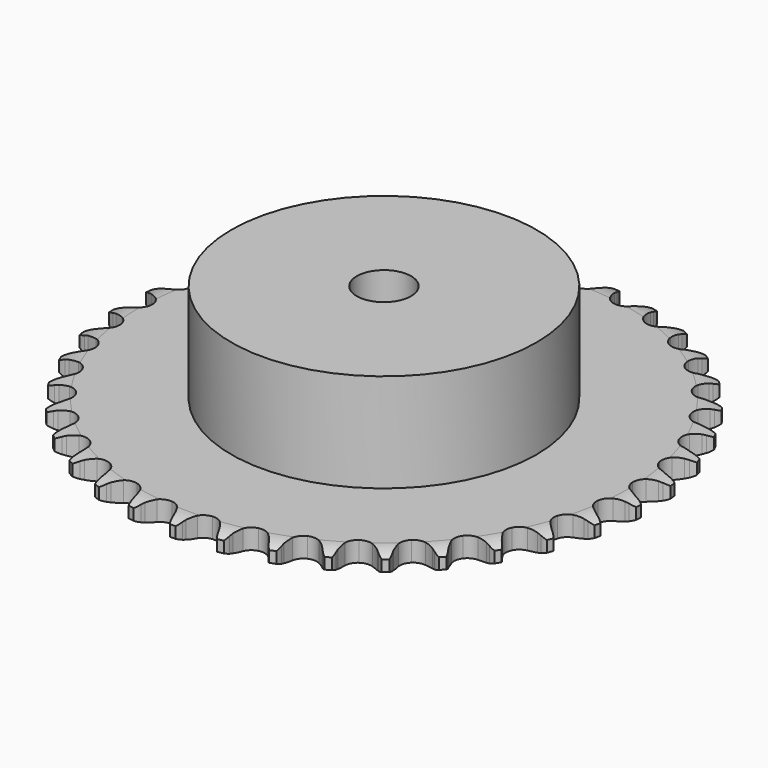
from build123d import *

# Parameters (mm, degrees)
PAD_DEPTH         = 5.9
SKETCH001_R       = 45
PAD001_DEPTH      = 35
SKETCH002_R       = 8
POCKET_DEPTH      = 0.001
POCKET_DEPTH_BACK = 35.001


with BuildPart() as part:
    # Sprocket → Pad (new body)
    with BuildSketch(Plane.XY):
        with BuildLine():
            ThreePointArc((-6.698559, 78.702366), (-5.642748, 77.523615), (-4.915144, 76.118346))
            Line((-4.915144, 76.118346), (-4.537139, 75.087359))
            ThreePointArc((-4.537139, 75.087359), (-3.938762, 73.75943), (-3.156175, 72.531014))
            ThreePointArc((-3.156175, 72.531014), (-1.766273, 71.36335), (0, 70.944369))
            ThreePointArc((0, 70.944369), (1.766273, 71.36335), (3.156175, 72.531014))
            ThreePointArc((3.156175, 72.531014), (3.938762, 73.75943), (4.537139, 75.087359))
            Line((4.537139, 75.087359), (4.915144, 76.118346))
            ThreePointArc((4.915144, 76.118346), (5.642748, 77.523615), (6.698559, 78.702366))
            ThreePointArc((6.698559, 78.702366), (7.539972, 77.362137), (8.019619, 75.854116))
            Line((8.019619, 75.854116), (8.217949, 74.774076))
            ThreePointArc((8.217949, 74.774076), (8.583298, 73.364122), (9.147025, 72.021117))
            ThreePointArc((9.147025, 72.021117), (10.319598, 70.635355), (11.989657, 69.923899))
            ThreePointArc((11.989657, 69.923899), (13.801331, 70.038352), (15.368577, 70.954325))
            Line((15.368577, 70.954325), (17.161702, 73.240515))
            ThreePointArc((17.161702, 73.240515), (17.422194, 73.724065), (17.708507, 74.192789))
            ThreePointArc((17.708507, 74.192789), (18.663137, 75.454879), (19.90297, 76.438243))
            ThreePointArc((19.90297, 76.438243), (20.505781, 74.975092), (20.723672, 73.407701))
            Line((20.723672, 73.407701), (20.736621, 72.309679))
            ThreePointArc((20.736621, 72.309679), (20.858431, 70.858261), (21.187081, 69.439304))
            ThreePointArc((21.187081, 69.439304), (22.108593, 67.875309), (23.634393, 66.891846))
            ThreePointArc((23.634393, 66.891846), (25.439351, 66.698478), (27.138853, 67.336409))
            Line((27.138853, 67.336409), (29.292553, 69.286676))
            ThreePointArc((29.292553, 69.286676), (29.631019, 69.719247), (29.992428, 70.132841))
            ThreePointArc((29.992428, 70.132841), (31.146621, 71.215444), (32.53481, 71.97513))
            ThreePointArc((32.53481, 71.97513), (32.881676, 70.43115), (32.831543, 68.849481))
            Line((32.831543, 68.849481), (32.658739, 67.765064))
            ThreePointArc((32.658739, 67.765064), (32.533506, 66.313938), (32.617624, 64.859849))
            ThreePointArc((32.617624, 64.859849), (33.261564, 63.162614), (34.59921, 61.935436))
            ThreePointArc((34.59921, 61.935436), (36.345526, 61.43981), (38.128394, 61.781348))
            Line((38.128394, 61.781348), (40.580712, 63.339584))
            ThreePointArc((40.580712, 63.339584), (40.987414, 63.708732), (41.413522, 64.055299))
            ThreePointArc((41.413522, 64.055299), (42.734074, 64.92727), (44.230682, 65.441423))
            ThreePointArc((44.230682, 65.441423), (44.311625, 63.861032), (43.994909, 62.310586))
            Line((43.994909, 62.310586), (43.641324, 61.270971))
            ThreePointArc((43.641324, 61.270971), (43.272651, 59.861883), (43.109816, 58.414494))
            ThreePointArc((43.109816, 58.414494), (43.45766, 56.632846), (44.568671, 55.197256))
            ThreePointArc((44.568671, 55.197256), (46.206107, 54.41363), (48.02105, 54.44895))
            Line((48.02105, 54.44895), (50.701437, 55.570329))
            ThreePointArc((50.701437, 55.570329), (51.164675, 55.865433), (51.643224, 56.135003))
            ThreePointArc((51.643224, 56.135003), (53.092145, 56.771257), (54.654118, 57.025087))
            ThreePointArc((54.654118, 57.025087), (54.46681, 55.453748), (53.892623, 53.979129))
            Line((53.892623, 53.979129), (53.368428, 53.014225))
            ThreePointArc((53.368428, 53.014225), (52.766921, 51.687711), (52.361818, 50.28866))
            ThreePointArc((52.361818, 50.28866), (52.403559, 48.473854), (53.255973, 46.871152))
            ThreePointArc((53.255973, 46.871152), (54.737422, 45.82207), (56.532228, 45.550154))
            Line((56.532228, 45.550154), (59.363574, 46.202416))
            ThreePointArc((59.363574, 46.202416), (59.870022, 46.414988), (60.387245, 46.599805))
            ThreePointArc((60.387245, 46.599805), (61.922852, 46.982038), (63.505255, 46.968242))
            ThreePointArc((63.505255, 46.968242), (63.055083, 45.451161), (62.239944, 44.094791))
            Line((62.239944, 44.094791), (61.560219, 43.232355))
            ThreePointArc((61.560219, 43.232355), (60.743182, 42.026577), (60.107466, 40.716113))
            ThreePointArc((60.107466, 40.716113), (59.841902, 38.920357), (60.411198, 37.19665))
            ThreePointArc((60.411198, 37.19665), (61.694042, 35.912292), (63.417077, 35.340964))
            Line((63.417077, 35.340964), (66.317929, 35.505343))
            ThreePointArc((66.317929, 35.505343), (66.853017, 35.629268), (67.394035, 35.724015))
            ThreePointArc((67.394035, 35.724015), (68.972151, 35.841231), (70.529461, 35.560206))
            ThreePointArc((70.529461, 35.560206), (69.829376, 34.141026), (68.796735, 32.941926))
            Line((68.796735, 32.941926), (67.981035, 32.20677))
            ThreePointArc((67.981035, 32.20677), (66.971973, 31.156415), (66.123932, 29.972238))
            ThreePointArc((66.123932, 29.972238), (65.558703, 28.247193), (65.828502, 26.452068))
            ThreePointArc((65.828502, 26.452068), (66.875836, 24.969382), (68.477532, 24.115078))
            Line((68.477532, 24.115078), (71.364438, 23.786847))
            ThreePointArc((71.364438, 23.786847), (71.912773, 23.818558), (72.462021, 23.820511))
            ThreePointArc((72.462021, 23.820511), (74.037247, 23.669338), (75.524663, 23.129168))
            ThreePointArc((75.524663, 23.129168), (74.594806, 21.848717), (73.374369, 20.841382))
            Line((73.374369, 20.841382), (72.44616, 20.254654))
            ThreePointArc((72.44616, 20.254654), (71.274102, 19.38994), (70.238132, 18.366116))
            ThreePointArc((70.238132, 18.366116), (69.3895, 16.761408), (69.35204, 14.946508))
            ThreePointArc((69.35204, 14.946508), (70.133734, 13.308149), (71.568013, 12.195446))
            Line((71.568013, 12.195446), (74.357922, 11.384046))
            ThreePointArc((74.357922, 11.384046), (74.903729, 11.322632), (75.445406, 11.231733))
            ThreePointArc((75.445406, 11.231733), (76.972426, 10.81652), (78.347158, 10.032746))
            ThreePointArc((78.347158, 10.032746), (77.214279, 8.927859), (75.841156, 8.141269))
            Line((75.841156, 8.141269), (74.827141, 7.719849))
            ThreePointArc((74.827141, 7.719849), (73.525804, 7.065652), (72.331709, 6.231634))
            ThreePointArc((72.331709, 6.231634), (71.224087, 4.793428), (70.880446, 3.010964))
            ThreePointArc((70.880446, 3.010964), (71.374012, 1.264065), (72.599613, -0.075027))
            Line((72.599613, -0.075027), (75.212264, -1.346253))
            ThreePointArc((75.212264, -1.346253), (75.739841, -1.499025), (76.258365, -1.680161))
            ThreePointArc((76.258365, -1.680161), (77.693249, -2.347468), (78.915748, -3.3523))
            ThreePointArc((78.915748, -3.3523), (77.612437, -4.249836), (76.126131, -4.793053))
            Line((76.126131, -4.793053), (75.055481, -5.037043))
            ThreePointArc((75.055481, -5.037043), (73.662304, -5.461902), (72.344434, -6.08212))
            ThreePointArc((72.344434, -6.08212), (71.009686, -7.31245), (70.369751, -9.011199))
            ThreePointArc((70.369751, -9.011199), (70.56099, -10.816384), (71.542654, -12.343342))
            Line((71.542654, -12.343342), (73.902887, -14.037823))
            ThreePointArc((73.902887, -14.037823), (74.397056, -14.277558), (74.877509, -14.543719))
            ThreePointArc((74.877509, -14.543719), (76.178978, -15.443925), (77.214075, -16.640906))
            ThreePointArc((77.214075, -16.640906), (75.777827, -17.305272), (74.221096, -17.589488))
            Line((74.221096, -17.589488), (73.124612, -17.649027))
            ThreePointArc((73.124612, -17.649027), (71.679673, -17.832327), (70.275942, -18.220903))
            ThreePointArc((70.275942, -18.220903), (68.752467, -19.207963), (67.834646, -20.774127))
            ThreePointArc((67.834646, -20.774127), (67.718057, -22.585665), (68.427543, -24.256562))
            Line((68.427543, -24.256562), (70.467457, -26.32555))
            ThreePointArc((70.467457, -26.32555), (70.914003, -26.645352), (71.342564, -26.988882))
            ThreePointArc((71.342564, -26.988882), (72.473177, -28.096088), (73.291094, -29.450784))
            ThreePointArc((73.291094, -29.450784), (71.763227, -29.862866), (70.180855, -29.879906))
            Line((70.180855, -29.879906), (69.090081, -29.753282))
            ThreePointArc((69.090081, -29.753282), (67.634948, -29.689749), (66.185739, -29.835504))
            ThreePointArc((66.185739, -29.835504), (64.517363, -30.550897), (63.348062, -31.939421))
            ThreePointArc((63.348062, -31.939421), (62.926998, -33.705198), (63.343896, -35.471964))
            Line((63.343896, -35.471964), (65.004807, -37.855939))
            ThreePointArc((65.004807, -37.855939), (65.390884, -38.246608), (65.755223, -38.657623))
            ThreePointArc((65.755223, -38.657623), (66.682454, -39.939978), (67.259662, -41.413416))
            ThreePointArc((67.259662, -41.413416), (65.684129, -41.56136), (64.121639, -41.310732))
            Line((64.121639, -41.310732), (63.067954, -41.001588))
            ThreePointArc((63.067954, -41.001588), (61.644489, -40.693051), (60.191493, -40.591792))
            ThreePointArc((60.191493, -40.591792), (58.426213, -41.014937), (57.039069, -42.185876))
            ThreePointArc((57.039069, -42.185876), (56.325644, -43.855094), (56.437961, -45.666902))
            Line((56.437961, -45.666902), (57.672088, -48.297281))
            ThreePointArc((57.672088, -48.297281), (57.986587, -48.747578), (58.276224, -49.214255))
            ThreePointArc((58.276224, -49.214255), (58.973399, -50.634867), (59.293292, -52.18466))
            ThreePointArc((59.293292, -52.18466), (57.715419, -52.064209), (56.21776, -51.553125))
            Line((56.21776, -51.553125), (55.231477, -51.070354))
            ThreePointArc((55.231477, -51.070354), (53.88063, -50.525687), (52.465647, -50.180327))
            ThreePointArc((52.465647, -50.180327), (50.654247, -50.299053), (49.089167, -51.21872))
            ThreePointArc((49.089167, -51.21872), (48.103904, -52.743358), (47.908408, -54.548087))
            Line((47.908408, -54.548087), (48.680247, -57.349199))
            ThreePointArc((48.680247, -57.349199), (48.914122, -57.846169), (49.120724, -58.355082))
            ThreePointArc((49.120724, -58.355082), (49.567786, -59.873083), (49.621161, -61.454646))
            ThreePointArc((49.621161, -61.454646), (48.086341, -61.069266), (46.696598, -60.312427))
            Line((46.696598, -60.312427), (45.806091, -59.669918))
            ThreePointArc((45.806091, -59.669918), (44.566723, -58.904792), (43.23046, -58.325266))
            ThreePointArc((43.23046, -58.325266), (41.425051, -58.136156), (39.727058, -58.778094))
            ThreePointArc((39.727058, -58.778094), (38.498303, -60.114293), (38.000618, -61.860023))
            Line((38.000618, -61.860023), (38.287964, -64.751285))
            ThreePointArc((38.287964, -64.751285), (38.434487, -65.280632), (38.55211, -65.81714))
            ThreePointArc((38.55211, -65.81714), (38.736198, -67.38886), (38.52152, -68.956694))
            ThreePointArc((38.52152, -68.956694), (37.073907, -68.317472), (35.83206, -67.336651))
            Line((35.83206, -67.336651), (35.062947, -66.552888))
            ThreePointArc((35.062947, -66.552888), (33.970714, -65.589313), (32.751611, -64.792294))
            ThreePointArc((32.751611, -64.792294), (31.004131, -64.300788), (29.222074, -64.646531))
            ThreePointArc((29.222074, -64.646531), (27.785175, -65.755848), (26.999619, -67.392358))
            Line((26.999619, -67.392358), (26.794207, -70.290594))
            ThreePointArc((26.794207, -70.290594), (26.849162, -70.837089), (26.874423, -71.385759))
            ThreePointArc((26.874423, -71.385759), (26.790241, -72.965982), (26.313686, -74.474983))
            ThreePointArc((26.313686, -74.474983), (24.994924, -73.600308), (23.9367, -72.423723))
            Line((23.9367, -72.423723), (23.311106, -71.521252))
            ThreePointArc((23.311106, -71.521252), (22.397428, -70.386949), (21.330558, -69.395365))
            ThreePointArc((21.330558, -69.395365), (19.691279, -68.615603), (17.876425, -68.655204))
            ThreePointArc((17.876425, -68.655204), (16.272718, -69.505727), (15.22189, -70.985938))
            Line((15.22189, -70.985938), (14.529628, -73.807771))
            ThreePointArc((14.529628, -73.807771), (14.491435, -74.355692), (14.423607, -74.900739))
            ThreePointArc((14.423607, -74.900739), (14.073577, -76.444005), (13.348854, -77.850763))
            ThreePointArc((13.348854, -77.850763), (12.196882, -76.765797), (11.352723, -75.427295))
            Line((11.352723, -75.427295), (10.888647, -74.43208))
            ThreePointArc((10.888647, -74.43208), (10.179809, -73.15968), (9.295864, -72.002058))
            ThreePointArc((9.295864, -72.002058), (7.811945, -70.956473), (6.016503, -70.688791))
            ThreePointArc((6.016503, -70.688791), (4.292125, -71.256053), (3.006255, -72.537382))
            Line((3.006255, -72.537382), (1.847059, -75.201632))
            ThreePointArc((1.847059, -75.201632), (1.716816, -75.735218), (1.55785, -76.260962))
            ThreePointArc((1.55785, -76.260962), (0.952042, -77.722874), (0, -78.986918))
            ThreePointArc((0, -78.986918), (-0.952042, -77.722874), (-1.55785, -76.260962))
            Line((-1.55785, -76.260962), (-1.847059, -75.201632))
            ThreePointArc((-1.847059, -75.201632), (-2.330664, -73.827741), (-3.006255, -72.537382))
            ThreePointArc((-3.006255, -72.537382), (-4.292125, -71.256053), (-6.016503, -70.688791))
            ThreePointArc((-6.016503, -70.688791), (-7.811945, -70.956473), (-9.295864, -72.002058))
            Line((-9.295864, -72.002058), (-10.888647, -74.43208))
            ThreePointArc((-10.888647, -74.43208), (-11.107193, -74.935979), (-11.352723, -75.427295))
            ThreePointArc((-11.352723, -75.427295), (-12.196882, -76.765797), (-13.348854, -77.850763))
            ThreePointArc((-13.348854, -77.850763), (-14.073577, -76.444005), (-14.423607, -74.900739))
            Line((-14.423607, -74.900739), (-14.529628, -73.807771))
            ThreePointArc((-14.529628, -73.807771), (-14.774088, -72.371912), (-15.22189, -70.985938))
            ThreePointArc((-15.22189, -70.985938), (-16.272718, -69.505727), (-17.876425, -68.655204))
            ThreePointArc((-17.876425, -68.655204), (-19.691279, -68.615603), (-21.330558, -69.395365))
            Line((-21.330558, -69.395365), (-23.311106, -71.521252))
            ThreePointArc((-23.311106, -71.521252), (-23.611668, -71.980968), (-23.9367, -72.423723))
            ThreePointArc((-23.9367, -72.423723), (-24.994924, -73.600308), (-26.313686, -74.474983))
            ThreePointArc((-26.313686, -74.474983), (-26.790241, -72.965982), (-26.874423, -71.385759))
            Line((-26.874423, -71.385759), (-26.794207, -70.290594))
            ThreePointArc((-26.794207, -70.290594), (-26.792489, -68.834075), (-26.999619, -67.392358))
            ThreePointArc((-26.999619, -67.392358), (-27.785175, -65.755848), (-29.222074, -64.646531))
            ThreePointArc((-29.222074, -64.646531), (-31.004131, -64.300788), (-32.751611, -64.792294))
            Line((-32.751611, -64.792294), (-35.062947, -66.552888))
            ThreePointArc((-35.062947, -66.552888), (-35.436878, -66.955196), (-35.83206, -67.336651))
            ThreePointArc((-35.83206, -67.336651), (-37.073907, -68.317472), (-38.52152, -68.956694))
            ThreePointArc((-38.52152, -68.956694), (-38.736198, -67.38886), (-38.55211, -65.81714))
            Line((-38.55211, -65.81714), (-38.287964, -64.751285))
            ThreePointArc((-38.287964, -64.751285), (-38.040119, -63.316007), (-38.000618, -61.860023))
            ThreePointArc((-38.000618, -61.860023), (-38.498303, -60.114293), (-39.727058, -58.778094))
            ThreePointArc((-39.727058, -58.778094), (-41.425051, -58.136156), (-43.23046, -58.325266))
            Line((-43.23046, -58.325266), (-45.806091, -59.669918))
            ThreePointArc((-45.806091, -59.669918), (-46.242634, -60.003245), (-46.696598, -60.312427))
            ThreePointArc((-46.696598, -60.312427), (-48.086341, -61.069266), (-49.621161, -61.454646))
            ThreePointArc((-49.621161, -61.454646), (-49.567786, -59.873083), (-49.120724, -58.355082))
            Line((-49.120724, -58.355082), (-48.680247, -57.349199))
            ThreePointArc((-48.680247, -57.349199), (-48.193403, -55.976453), (-47.908408, -54.548087))
            ThreePointArc((-47.908408, -54.548087), (-48.103904, -52.743358), (-49.089167, -51.21872))
            ThreePointArc((-49.089167, -51.21872), (-50.654247, -50.299053), (-52.465647, -50.180327))
            Line((-52.465647, -50.180327), (-55.231477, -51.070354))
            ThreePointArc((-55.231477, -51.070354), (-55.718074, -51.32511), (-56.21776, -51.553125))
            ThreePointArc((-56.21776, -51.553125), (-57.715419, -52.064209), (-59.293292, -52.18466))
            ThreePointArc((-59.293292, -52.18466), (-58.973399, -50.634867), (-58.276224, -49.214255))
            Line((-58.276224, -49.214255), (-57.672088, -48.297281))
            ThreePointArc((-57.672088, -48.297281), (-56.960251, -47.026558), (-56.437961, -45.666902))
            ThreePointArc((-56.437961, -45.666902), (-56.325644, -43.855094), (-57.039069, -42.185876))
            ThreePointArc((-57.039069, -42.185876), (-58.426213, -41.014937), (-60.191493, -40.591792))
            Line((-60.191493, -40.591792), (-63.067954, -41.001588))
            ThreePointArc((-63.067954, -41.001588), (-63.590606, -41.170445), (-64.121639, -41.310732))
            ThreePointArc((-64.121639, -41.310732), (-65.684129, -41.56136), (-67.259662, -41.413416))
            ThreePointArc((-67.259662, -41.413416), (-66.682454, -39.939978), (-65.755223, -38.657623))
            Line((-65.755223, -38.657623), (-65.004807, -37.855939))
            ThreePointArc((-65.004807, -37.855939), (-64.088457, -36.723794), (-63.343896, -35.471964))
            ThreePointArc((-63.343896, -35.471964), (-62.926998, -33.705198), (-63.348062, -31.939421))
            ThreePointArc((-63.348062, -31.939421), (-64.517363, -30.550897), (-66.185739, -29.835504))
            Line((-66.185739, -29.835504), (-69.090081, -29.753282))
            ThreePointArc((-69.090081, -29.753282), (-69.633752, -29.831381), (-70.180855, -29.879906))
            ThreePointArc((-70.180855, -29.879906), (-71.763227, -29.862866), (-73.291094, -29.450784))
            ThreePointArc((-73.291094, -29.450784), (-72.473177, -28.096088), (-71.342564, -26.988882))
            Line((-71.342564, -26.988882), (-70.467457, -26.32555))
            ThreePointArc((-70.467457, -26.32555), (-69.372954, -25.364554), (-68.427543, -24.256562))
            ThreePointArc((-68.427543, -24.256562), (-67.718057, -22.585665), (-67.834646, -20.774127))
            ThreePointArc((-67.834646, -20.774127), (-68.752467, -19.207963), (-70.275942, -18.220903))
            Line((-70.275942, -18.220903), (-73.124612, -17.649027))
            ThreePointArc((-73.124612, -17.649027), (-73.673661, -17.634122), (-74.221096, -17.589488))
            ThreePointArc((-74.221096, -17.589488), (-75.777827, -17.305272), (-77.214075, -16.640906))
            ThreePointArc((-77.214075, -16.640906), (-76.178978, -15.443925), (-74.877509, -14.543719))
            Line((-74.877509, -14.543719), (-73.902887, -14.037823))
            ThreePointArc((-73.902887, -14.037823), (-72.661718, -13.275622), (-71.542654, -12.343342))
            ThreePointArc((-71.542654, -12.343342), (-70.56099, -10.816384), (-70.369751, -9.011199))
            ThreePointArc((-70.369751, -9.011199), (-71.009686, -7.31245), (-72.344434, -6.08212))
            Line((-72.344434, -6.08212), (-75.055481, -5.037043))
            ThreePointArc((-75.055481, -5.037043), (-75.594114, -4.929562), (-76.126131, -4.793053))
            ThreePointArc((-76.126131, -4.793053), (-77.612437, -4.249836), (-78.915748, -3.3523))
            ThreePointArc((-78.915748, -3.3523), (-77.693249, -2.347468), (-76.258365, -1.680161))
            Line((-76.258365, -1.680161), (-75.212264, -1.346253))
            ThreePointArc((-75.212264, -1.346253), (-73.860136, -0.804774), (-72.599613, -0.075027))
            ThreePointArc((-72.599613, -0.075027), (-71.374012, 1.264065), (-70.880446, 3.010964))
            ThreePointArc((-70.880446, 3.010964), (-71.224087, 4.793428), (-72.331709, 6.231634))
            Line((-72.331709, 6.231634), (-74.827141, 7.719849))
            ThreePointArc((-74.827141, 7.719849), (-75.339862, 7.916812), (-75.841156, 8.141269))
            ThreePointArc((-75.841156, 8.141269), (-77.214279, 8.927859), (-78.347158, 10.032746))
            ThreePointArc((-78.347158, 10.032746), (-76.972426, 10.81652), (-75.445406, 11.231733))
            Line((-75.445406, 11.231733), (-74.357922, 11.384046))
            ThreePointArc((-74.357922, 11.384046), (-72.933733, 11.689225), (-71.568013, 12.195446))
            ThreePointArc((-71.568013, 12.195446), (-70.133734, 13.308149), (-69.35204, 14.946508))
            ThreePointArc((-69.35204, 14.946508), (-69.3895, 16.761408), (-70.238132, 18.366116))
            Line((-70.238132, 18.366116), (-72.44616, 20.254654))
            ThreePointArc((-72.44616, 20.254654), (-72.918218, 20.535434), (-73.374369, 20.841382))
            ThreePointArc((-73.374369, 20.841382), (-74.594806, 21.848717), (-75.524663, 23.129168))
            ThreePointArc((-75.524663, 23.129168), (-74.037247, 23.669338), (-72.462021, 23.820511))
            Line((-72.462021, 23.820511), (-71.364438, 23.786847))
            ThreePointArc((-71.364438, 23.786847), (-69.909159, 23.846947), (-68.477532, 24.115078))
            ThreePointArc((-68.477532, 24.115078), (-66.875836, 24.969382), (-65.828502, 26.452068))
            ThreePointArc((-65.828502, 26.452068), (-65.558703, 28.247193), (-66.123932, 29.972238))
            Line((-66.123932, 29.972238), (-67.981035, 32.20677))
            ThreePointArc((-67.981035, 32.20677), (-68.398851, 32.56329), (-68.796735, 32.941926))
            ThreePointArc((-68.796735, 32.941926), (-69.829376, 34.141026), (-70.529461, 35.560206))
            ThreePointArc((-70.529461, 35.560206), (-68.972151, 35.841231), (-67.394035, 35.724015))
            Line((-67.394035, 35.724015), (-66.317929, 35.505343))
            ThreePointArc((-66.317929, 35.505343), (-64.873426, 35.318636), (-63.417077, 35.340964))
            ThreePointArc((-63.417077, 35.340964), (-61.694042, 35.912292), (-60.411198, 37.19665))
            ThreePointArc((-60.411198, 37.19665), (-59.841902, 38.920357), (-60.107466, 40.716113))
            Line((-60.107466, 40.716113), (-61.560219, 43.232355))
            ThreePointArc((-61.560219, 43.232355), (-61.911773, 43.654358), (-62.239944, 44.094791))
            ThreePointArc((-62.239944, 44.094791), (-63.055083, 45.451161), (-63.505255, 46.968242))
            ThreePointArc((-63.505255, 46.968242), (-61.922852, 46.982038), (-60.387245, 46.599805))
            Line((-60.387245, 46.599805), (-59.363574, 46.202416))
            ThreePointArc((-59.363574, 46.202416), (-57.971402, 45.774271), (-56.532228, 45.550154))
            ThreePointArc((-56.532228, 45.550154), (-54.737422, 45.82207), (-53.255973, 46.871152))
            ThreePointArc((-53.255973, 46.871152), (-52.403559, 48.473854), (-52.361818, 50.28866))
            Line((-52.361818, 50.28866), (-53.368428, 53.014225))
            ThreePointArc((-53.368428, 53.014225), (-53.643606, 53.48957), (-53.892623, 53.979129))
            ThreePointArc((-53.892623, 53.979129), (-54.46681, 55.453748), (-54.654118, 57.025087))
            ThreePointArc((-54.654118, 57.025087), (-53.092145, 56.771257), (-51.643224, 56.135003))
            Line((-51.643224, 56.135003), (-50.701437, 55.570329))
            ThreePointArc((-50.701437, 55.570329), (-49.401647, 54.913065), (-48.02105, 54.44895))
            ThreePointArc((-48.02105, 54.44895), (-46.206107, 54.41363), (-44.568671, 55.197256))
            ThreePointArc((-44.568671, 55.197256), (-43.45766, 56.632846), (-43.109816, 58.414494))
            Line((-43.109816, 58.414494), (-43.641324, 61.270971))
            ThreePointArc((-43.641324, 61.270971), (-43.832211, 61.785985), (-43.994909, 62.310586))
            ThreePointArc((-43.994909, 62.310586), (-44.311625, 63.861032), (-44.230682, 65.441423))
            ThreePointArc((-44.230682, 65.441423), (-42.734074, 64.92727), (-41.413522, 64.055299))
            Line((-41.413522, 64.055299), (-40.580712, 63.339584))
            ThreePointArc((-40.580712, 63.339584), (-39.410696, 62.472109), (-38.128394, 61.781348))
            ThreePointArc((-38.128394, 61.781348), (-36.345526, 61.43981), (-34.59921, 61.935436))
            ThreePointArc((-34.59921, 61.935436), (-33.261564, 63.162614), (-32.617624, 64.859849))
            Line((-32.617624, 64.859849), (-32.658739, 67.765064))
            ThreePointArc((-32.658739, 67.765064), (-32.759842, 68.30493), (-32.831543, 68.849481))
            ThreePointArc((-32.831543, 68.849481), (-32.881676, 70.43115), (-32.53481, 71.97513))
            ThreePointArc((-32.53481, 71.97513), (-31.146621, 71.215444), (-29.992428, 70.132841))
            Line((-29.992428, 70.132841), (-29.292553, 69.286676))
            ThreePointArc((-29.292553, 69.286676), (-28.285971, 68.233945), (-27.138853, 67.336409))
            ThreePointArc((-27.138853, 67.336409), (-25.439351, 66.698478), (-23.634393, 66.891846))
            ThreePointArc((-23.634393, 66.891846), (-22.108593, 67.875309), (-21.187081, 69.439304))
            Line((-21.187081, 69.439304), (-20.736621, 72.309679))
            ThreePointArc((-20.736621, 72.309679), (-20.745032, 72.858866), (-20.723672, 73.407701))
            ThreePointArc((-20.723672, 73.407701), (-20.505781, 74.975092), (-19.90297, 76.438243))
            ThreePointArc((-19.90297, 76.438243), (-18.663137, 75.454879), (-17.708507, 74.192789))
            Line((-17.708507, 74.192789), (-17.161702, 73.240515))
            ThreePointArc((-17.161702, 73.240515), (-16.347511, 72.032814), (-15.368577, 70.954325))
            ThreePointArc((-15.368577, 70.954325), (-13.801331, 70.038352), (-11.989657, 69.923899))
            ThreePointArc((-11.989657, 69.923899), (-10.319598, 70.635355), (-9.147025, 72.021117))
            Line((-9.147025, 72.021117), (-8.217949, 74.774076))
            ThreePointArc((-8.217949, 74.774076), (-8.133426, 75.316785), (-8.019619, 75.854116))
            ThreePointArc((-8.019619, 75.854116), (-7.539972, 77.362137), (-6.698559, 78.702366))
        make_face()
    extrude(amount=PAD_DEPTH)

    # Sketch → Groove (revolve, cut)
    with BuildSketch(Plane.XZ):
        with BuildLine():
            Line((72.183431, 0), (77.85, 0))
            Line((83.516569, 0), (77.85, 0))
            Line((83.516569, 5.9), (83.516569, 0))
            Line((77.85, 5.9), (83.516569, 5.9))
            Line((72.183431, 5.9), (77.85, 5.9))
            ThreePointArc((77.85, 4.6), (75.09032, 5.570833), (72.183431, 5.9))
            Line((77.85, 1.3), (77.85, 4.6))
            ThreePointArc((72.183431, 0), (75.09032, 0.329167), (77.85, 1.3))
        make_face()
    revolve(axis=Axis((0, 0, 0), (0, 0, 1)), mode=Mode.SUBTRACT)

    # Sketch001 → Pad001 (join)
    with BuildSketch(Plane.XY):
        Circle(SKETCH001_R)
    extrude(amount=PAD001_DEPTH)

    # Sketch002 → Pocket (cut, two sides)
    with BuildSketch(Plane.XY) as pocket_sk:
        Circle(SKETCH002_R)
    extrude(amount=-POCKET_DEPTH, mode=Mode.SUBTRACT)
    extrude(pocket_sk.sketch, amount=POCKET_DEPTH_BACK, mode=Mode.SUBTRACT)


solid = part.part
